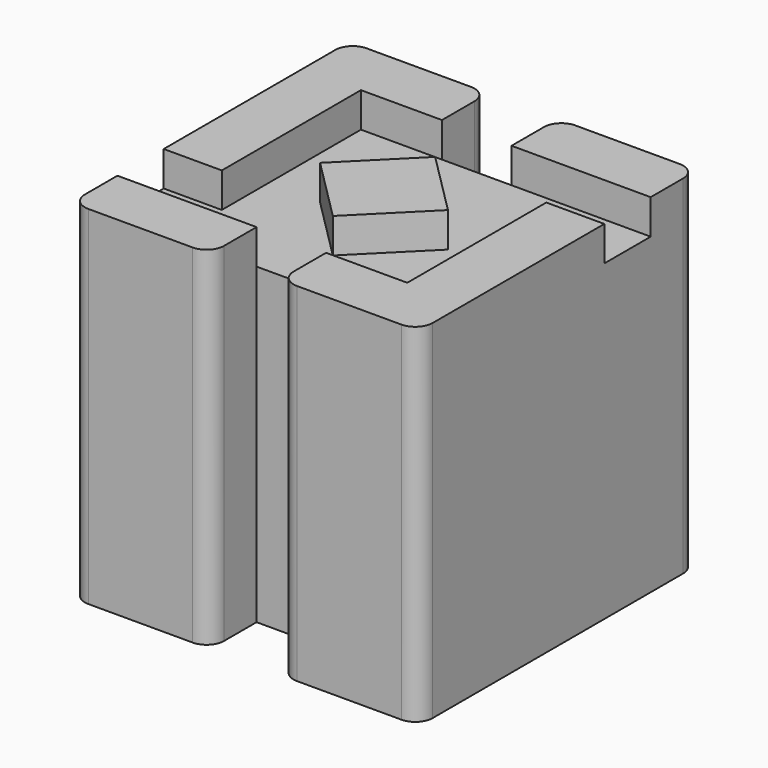
from build123d import *

# Parameters (mm, degrees)
F0_W     = 25.4
F0_H     = 25.4
F1_DEPTH = 11.43
F2_W     = 10.16
F2_H     = 4.2333333333
F2_H_2   = 4.2418
F3_DEPTH = 2.54
F2_W_2   = 5.08
F4_DEPTH = 22.861
F5_R     = 1.27


with BuildPart() as f1:
    # F0 (on Top) → F1 (new body, symmetric)
    with BuildSketch(Plane.XY):
        Rectangle(F0_W, F0_H)
    extrude(amount=F1_DEPTH, both=True)

    # F2 (on face) → F3 (join)
    with BuildSketch(Plane.XY.offset(11.43)):
        Polygon((-2.54, 12.7), (-12.7, 12.7), (-12.7, -4.2333333333), (-8.4582, -4.2333333333), (-8.4582, 8.4666666667), (-2.54, 8.4666666667), align=None)
        with Locations((7.62, 10.5833333333)):
            Rectangle(F2_W, F2_H)
        Polygon((8.4666666667, -8.4582), (2.54, -8.4582), (2.54, -12.7), (12.7, -12.7), (12.7, 4.2333333333), (8.4666666667, 4.2333333333), align=None)
        Polygon((4.669733183, 0), (0, 4.669733183), (-4.669733183, 0), (0, -4.669733183), align=None)
        with Locations((-7.62, -10.5791)):
            Rectangle(F2_W, F2_H_2)
    extrude(amount=F3_DEPTH)

    # F2 (on face) → F4 (cut, through all)
    with BuildSketch(Plane.XY.offset(11.43)):
        with Locations((0, 10.5833333333)):
            Rectangle(F2_W_2, F2_H)
        with Locations((0, -10.5791)):
            Rectangle(F2_W_2, F2_H_2)
    extrude(amount=-F4_DEPTH, mode=Mode.SUBTRACT)

    # F5
    f5_edges = [f1.edges().sort_by_distance(p)[0] for p in [
        (-12.7, 12.7, 1.27),
        (-12.7, -12.7, 1.27),
        (12.7, 12.7, 1.27),
        (12.7, -12.7, 1.27),
        (2.54, -12.7, 1.27),
        (-2.54, -12.7, 1.27),
        (2.54, 12.7, 1.27),
        (-2.54, 12.7, 1.27),
    ]]
    fillet(f5_edges, radius=F5_R)


solid = f1.part
